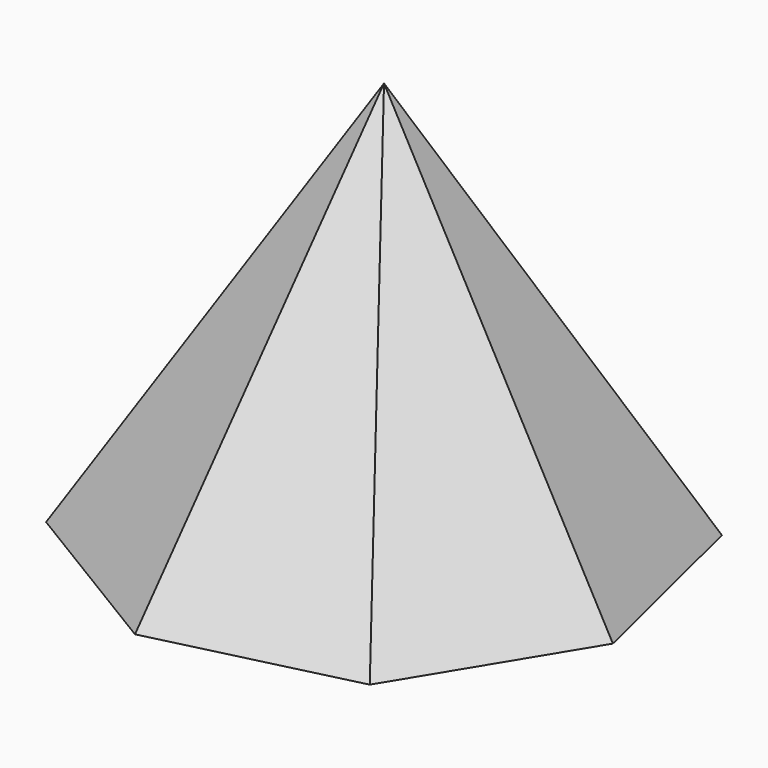
from build123d import *

# Parameters (mm, degrees)
F4_T = -2.54


with BuildPart() as f3:
    # F0 (on Top) → F3 section 0
    with BuildSketch(Plane.XY, mode=Mode.PRIVATE) as f3_s0:
        Polygon((-30.354286, 41.401532), (-50.739026, 7.811583), (-41.401532, -30.354286), (-7.811583, -50.739026), (30.354286, -41.401532), (50.739026, -7.811583), (41.401532, 30.354286), (7.811583, 50.739026), align=None)
    loft([f3_s0.sketch, Vertex(0, 0, 76.2)])

    # F4
    f4_openings = [f3.faces().sort_by_distance(p)[0] for p in [
        (0, 0, 0),
    ]]
    offset(amount=F4_T, openings=f4_openings)


solid = f3.part
